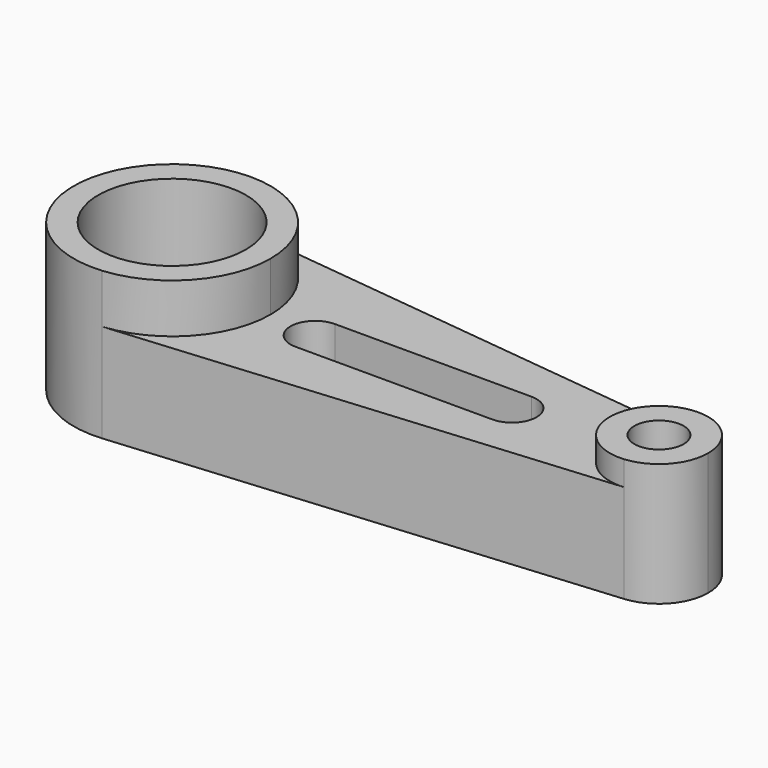
from build123d import *

# Parameters (mm, degrees)
F0_R     = 19.05
F1_DEPTH = 38.1
F0_R_2   = 6.35
F2_DEPTH = 31.75
F3_DEPTH = 25.4


with BuildPart() as f1:
    # F0 (on Top) → F1 (new body)
    with BuildSketch(Plane.XY):
        with BuildLine():
            ThreePointArc((-93.689878, -12.069013), (-77.173734, -3.926966), (-70.499011, 13.234736))
            ThreePointArc((-70.499011, 13.234736), (-76.950951, 30.150144), (-93.029012, 38.472072))
            ThreePointArc((-93.029012, 38.472072), (-121.29684, 13.566834), (-93.689878, -12.069013))
        make_face()
        with Locations((-95.899011, 13.234736)):
            Circle(F0_R, mode=Mode.SUBTRACT)
    extrude(amount=F1_DEPTH)



with BuildPart() as f2:
    # F0 (on Top) → F2 (new body)
    with BuildSketch(Plane.XY):
        with BuildLine():
            ThreePointArc((43.800989, 11.574107), (40.575019, 20.031811), (32.535988, 24.192775))
            ThreePointArc((32.535988, 24.192775), (18.402075, 11.740156), (32.205555, -1.077768))
            ThreePointArc((32.205555, -1.077768), (40.463627, 2.993256), (43.800989, 11.574107))
        make_face()
        with Locations((31.100989, 11.574107)):
            Circle(F0_R_2, mode=Mode.SUBTRACT)
    extrude(amount=F2_DEPTH)


with BuildPart() as f1_1:
    add(f1.part)

    add(f2.part)  # F3 merges F2
    # F0 (on Top) → F3 (join)
    with BuildSketch(Plane.XY):
        with BuildLine():
            ThreePointArc((-93.029012, 38.472072), (-76.950951, 30.150144), (-70.499011, 13.234736))
            ThreePointArc((-70.499011, 13.234736), (-77.173734, -3.926966), (-93.689878, -12.069013))
            Line((-93.689878, -12.069013), (32.205555, -1.077768))
            ThreePointArc((32.205555, -1.077768), (18.402075, 11.740156), (32.535988, 24.192775))
            Line((32.535988, 24.192775), (-93.029012, 38.472072))
        make_face()
        with BuildLine():
            ThreePointArc((-57.799011, 5.414211), (-64.149011, 11.764211), (-57.799011, 18.114211))
            Line((-57.799011, 18.114211), (-6.999011, 18.114211))
            ThreePointArc((-6.999011, 18.114211), (-0.649011, 11.764211), (-6.999011, 5.414211))
            Line((-6.999011, 5.414211), (-57.799011, 5.414211))
        make_face(mode=Mode.SUBTRACT)
    extrude(amount=F3_DEPTH)


solid = f1_1.part
